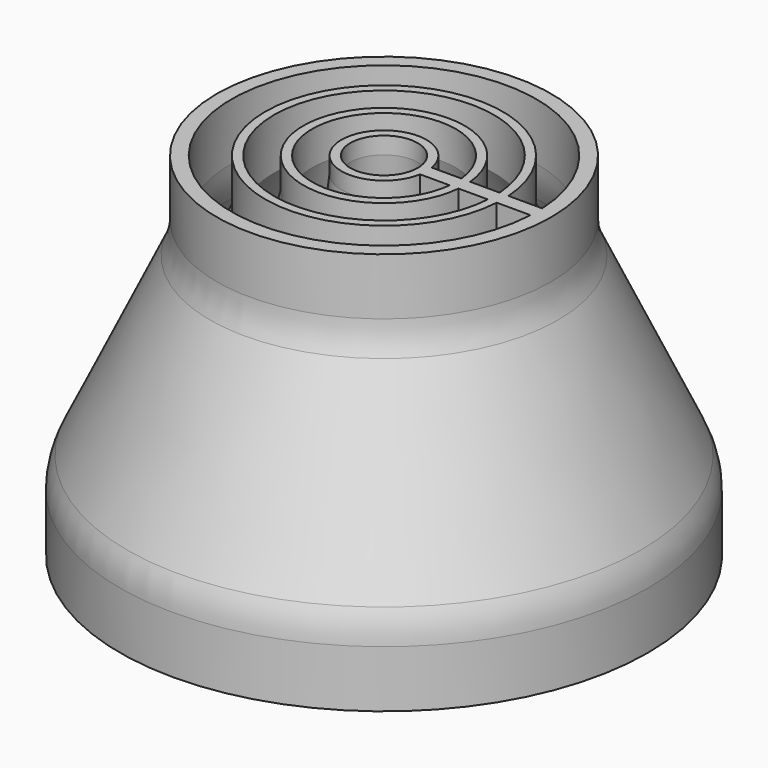
from build123d import *

# Parameters (mm, degrees)
F2_T          = -5
F6_DEPTH      = 2.5
F6_DEPTH_BACK = 2.5


with BuildPart() as f1:
    # F0 (on Front) → F1 (revolve)
    with BuildSketch(Plane.XZ):
        with BuildLine():
            Line((0, 120), (0, 0))
            Line((0, 0), (90, 0))
            Line((90, 0), (90, 19.402553))
            ThreePointArc((90, 19.402553), (89.395989, 24.864763), (87.613141, 30.063034))
            Line((87.613141, 30.063034), (59.386859, 89.936966))
            ThreePointArc((59.386859, 89.936966), (57.604011, 95.135237), (57, 100.597447))
            Line((57, 100.597447), (57, 120))
            Line((57, 120), (0, 120))
        make_face()
    revolve(axis=Axis((0, 0, 60), (0, 0, -1)))

    # F2
    f2_openings = [f1.faces().sort_by_distance(p)[0] for p in [
        (0, 0, 120),
        (0, 0, 0),
    ]]
    offset(amount=F2_T, openings=f2_openings)



with BuildPart() as f4:
    # F3 (on Front) → F4 (revolve)
    with BuildSketch(Plane.XZ):
        Polygon((11.5, 114.214671), (23.5, 6.86087), (23.5, 0), (26.5, 0), (26.5, 7.028019), (14.5, 114.38182), (14.5, 120), (11.5, 120), align=None)
        Polygon((37.5, 102.580184), (73.5, 20.51878), (73.5, 0), (76.5, 0), (76.5, 21.147887), (40.5, 103.20929), (40.5, 120), (37.5, 120), align=None)
        Polygon((24.5, 108.40939), (48.5, 13.701787), (48.5, 0), (51.5, 0), (51.5, 14.07599), (27.5, 108.783593), (27.5, 120), (24.5, 120), align=None)
    revolve(axis=Axis((0, 0, 60), (0, 0, 1)))


with BuildPart() as f1_1:
    add(f1.part)

    add(f4.part)  # F6 merges F4
    # F5 (on Front) → F6 (join, two sides)
    with BuildSketch(Plane.XZ) as f6_sk:
        Polygon((25.17798, 13.286571), (25.17798, 0), (88, 0), (88, 26.186641), (54.097552, 94.328962), (54.097552, 120), (12, 120), (12, 113.708496), align=None)
    extrude(amount=F6_DEPTH)
    extrude(f6_sk.sketch, amount=-F6_DEPTH_BACK)


solid = f1_1.part
